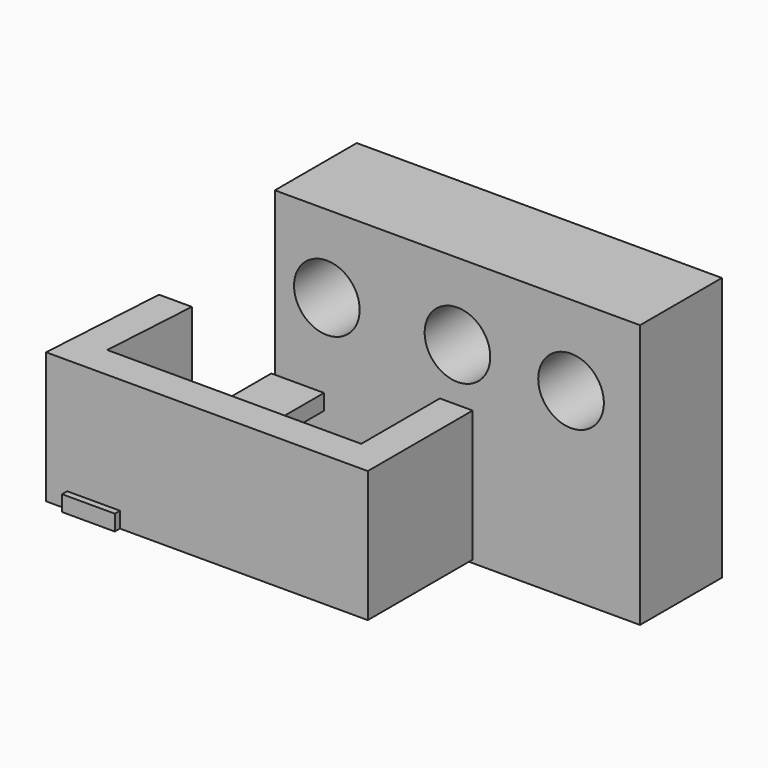
from build123d import *

# Parameters (mm, degrees)
F0_W      = 70.683616
F0_H      = 51.078157
F1_DEPTH  = 19.812
F3_D      = 12.7
F5_D      = 12.7
F7_D      = 12.7
F9_DEPTH  = 25.4
F10_T     = -6.35
F11_W     = 10.204611
F11_H     = 50.619624
F12_DEPTH = 3.048


with BuildPart() as f1:
    # F0 (on Front) → F1 (new body)
    with BuildSketch(Plane.XZ):
        with Locations((-7.8293, 2.925079)):
            Rectangle(F0_W, F0_H)
    extrude(amount=F1_DEPTH)

    # F3 (through all)
    with Locations(Plane.XZ.offset(19.812)):
        with Locations((-33.106167, 13.427656)):
            Hole(F3_D / 2)

    # F5 (through all)
    with Locations(Plane.XZ.offset(19.812)):
        with Locations((14.153406, 12.930374)):
            Hole(F5_D / 2)

    # F7 (through all)
    with Locations(Plane.XZ.offset(19.812)):
        with Locations((-7.8293, 13.641678)):
            Hole(F7_D / 2)


with BuildPart() as f9:
    # F8 (on Top) → F9 (new body)
    with BuildSketch(Plane.XY):
        Polygon((-39.179049, -52.82893), (-40.73438, -78.207716), (21.53318, -78.207716), (21.53318, -52.82893), align=None)
    extrude(amount=F9_DEPTH)

    # F10
    f10_openings = [f9.faces().sort_by_distance(p)[0] for p in [
        (-8.822935, -52.82893, 12.7),
        (-9.213407, -65.571818, 25.4),
    ]]
    offset(amount=F10_T, openings=f10_openings)

    # F11 (on Top) → F12 (join)
    with BuildSketch(Plane.XY):
        with Locations((-31.540723, -54.136563)):
            Rectangle(F11_W, F11_H)
    extrude(amount=F12_DEPTH)


solid = Compound([f1.part, f9.part])
